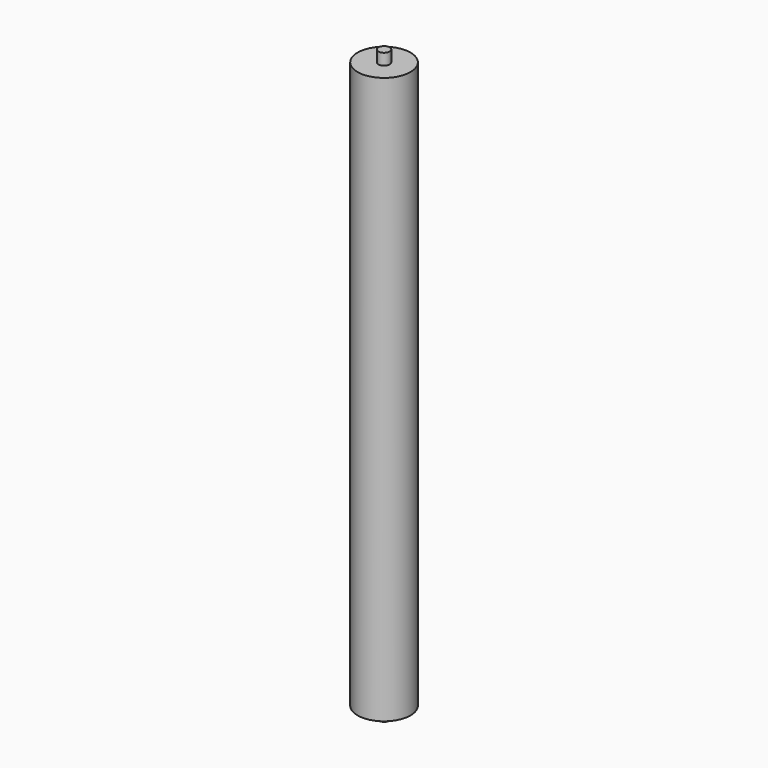
from build123d import *

# Parameters (mm, degrees)
CYLINDER_R        = 35
CYLINDER_DEPTH    = 375
CYLINDER001_R     = 7.5
CYLINDER001_DEPTH = 390


with BuildPart() as part:
    # Cylinder → Cylinder (join)
    with BuildSketch(Plane.XY):
        Circle(CYLINDER_R)
    cylinder = extrude(amount=CYLINDER_DEPTH)

    # Cylinder001 → Cylinder001 (join)
    with BuildSketch(Plane.XY):
        Circle(CYLINDER001_R)
    cylinder001 = extrude(amount=CYLINDER001_DEPTH)

    # Mirrored001: Cylinder, Cylinder001 across XY
    add(cylinder.mirror(Plane.XY))
    add(cylinder001.mirror(Plane.XY))


solid = part.part
